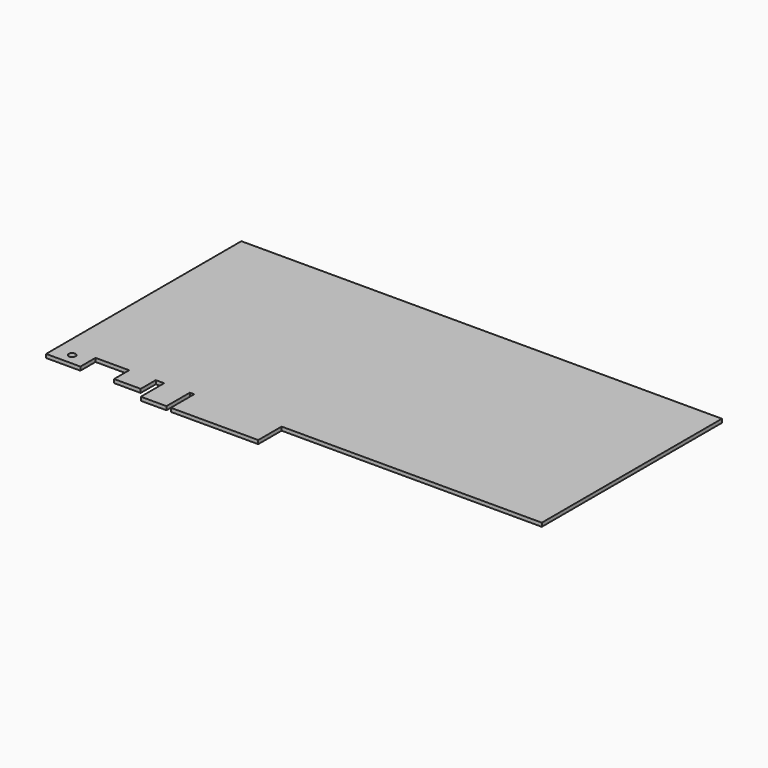
from build123d import *

# Parameters (mm, degrees)
F0_R     = 1.5
F1_DEPTH = 1.6


with BuildPart() as f1:
    # F0 (on Top) → F1 (new body)
    with BuildSketch(Plane.XY):
        Polygon((210, 8.27), (210, 106.65), (0, 106.65), (0, 0), (15, 0), (15, 8.25), (29.7, 8.25), (29.7, 0), (41.35, 0), (41.35, 8.25), (45, 8.25), (45, -4.5), (56.2, -4.5), (56.2, 8.27), (58.1, 8.27), (58.1, -4.5), (96.3, -4.5), (96.3, 8.27), align=None)
        with Locations((7.5, 4.87)):
            Circle(F0_R, mode=Mode.SUBTRACT)
    extrude(amount=F1_DEPTH)


solid = f1.part
